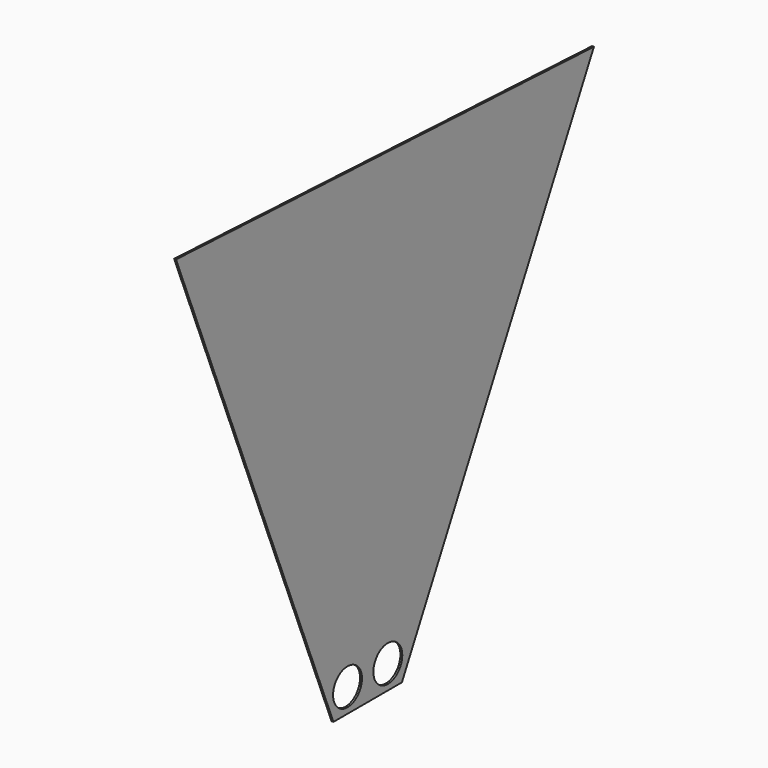
from build123d import *

# Parameters (mm, degrees)
F0_R     = 38
F1_DEPTH = 4


with BuildPart() as f1:
    # F0 (on Right) → F1 (new body)
    with BuildSketch(Plane.YZ):
        Polygon((-180, 0), (0, 0), (504.79022, 971.705631), (-593.940286, 1024.538159), align=None)
        with Locations((-143, 50)):
            Circle(F0_R, mode=Mode.SUBTRACT)
        with Locations((-37, 50)):
            Circle(F0_R, mode=Mode.SUBTRACT)
    extrude(amount=F1_DEPTH)


solid = f1.part
